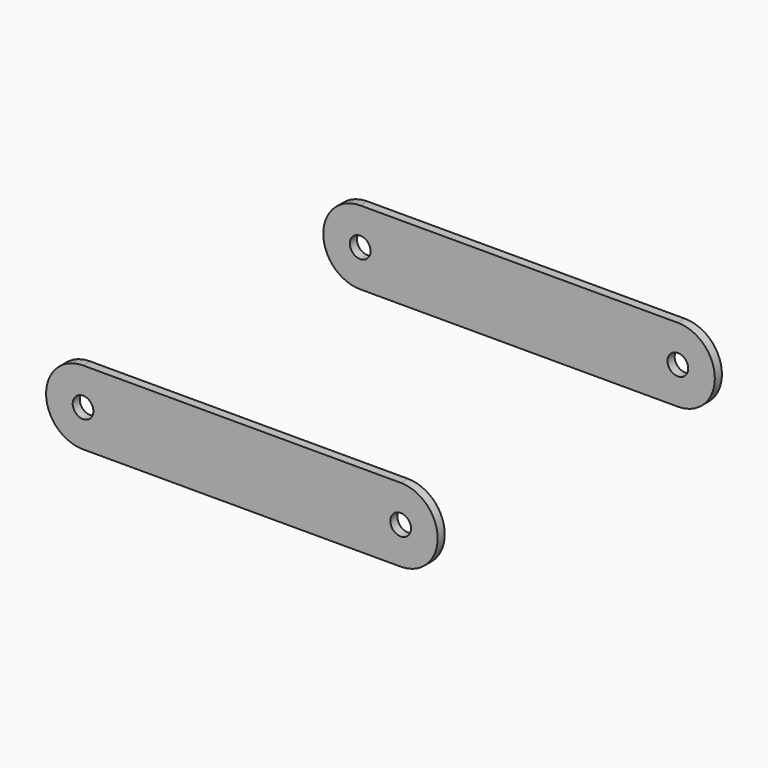
from build123d import *

# Parameters (mm, degrees)
SKETCH044_R  = 7
PAD009_DEPTH = 6


with BuildPart() as body006:
    # Sketch044 → Pad009 (new body)
    with BuildSketch(Plane.XZ):
        with BuildLine():
            Line((0, 25), (215, 25))
            ThreePointArc((215, -25), (240, 0), (215, 25))
            Line((215, -25), (0, -25))
            ThreePointArc((0, 25), (-25, 0), (0, -25))
        make_face()
        Circle(SKETCH044_R, mode=Mode.SUBTRACT)
        with Locations((215, 0)):
            Circle(SKETCH044_R, mode=Mode.SUBTRACT)
    extrude(amount=PAD009_DEPTH)


with BuildPart() as body006_1:
    # Body006 placement: moved
    add(body006.part.moved(Location((0, -114.25, 0))))


with BuildPart() as linkplate:
    # Mirror005: instance of Body006
    add(body006_1.part.mirror(Plane(origin=(-500, 0, 0), x_dir=(-1, 0, 0), z_dir=(0, -1, 0))))

    # Fusion014: union Body006
    add(body006_1.part)


solid = linkplate.part
